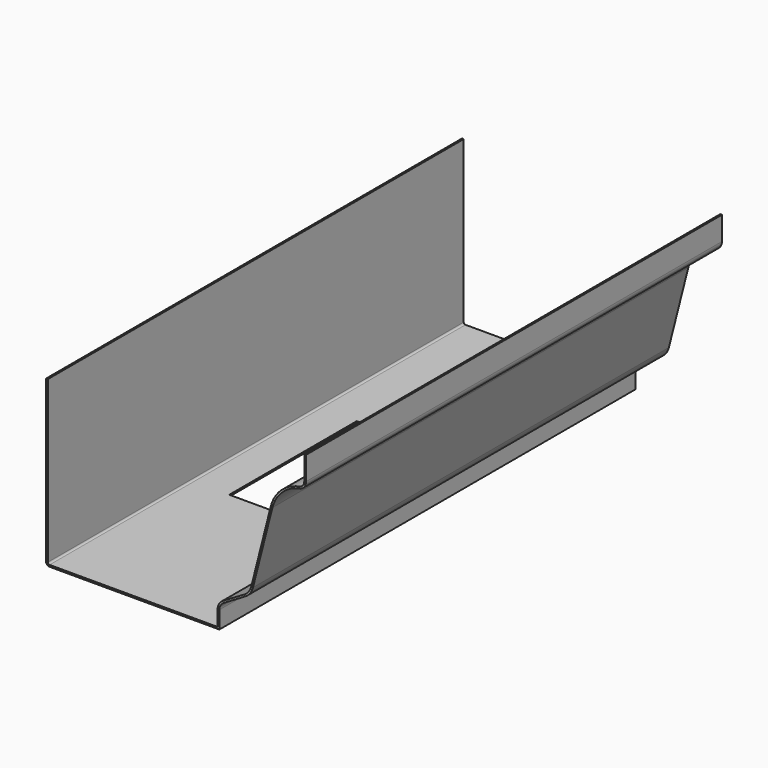
from build123d import *

# Parameters (mm, degrees)
F1_DEPTH = 300
F2_W     = 57
F2_H     = 92
F3_DEPTH = 25
F4_DEPTH = 25
F5_DEPTH = 25


with BuildPart() as f1:
    # F0 (on Front) → F1 (new body)
    with BuildSketch(Plane.XZ):
        with BuildLine():
            Line((75, 38.914216), (75, 52.5))
            Line((75, 52.5), (74, 52.5))
            Line((74, 52.5), (74, 38.875))
            ThreePointArc((74, 38.875), (73.361451, 36.706903), (71.649678, 35.231024))
            ThreePointArc((71.649678, 35.231024), (60.8185, 29.988223), (54.643786, 19.659898))
            Line((54.643786, 19.659898), (43.416317, -24.63337))
            ThreePointArc((43.416317, -24.63337), (41.948954, -27.705545), (39.413109, -29.977308))
            Line((39.413109, -29.977308), (26.950339, -37.332837))
            ThreePointArc((26.950339, -37.332837), (24.789532, -39.524934), (24, -42.5))
            Line((24, -42.5), (24, -51.5))
            Line((24, -51.5), (-73, -51.5))
            ThreePointArc((-73, -51.5), (-73.707107, -51.207107), (-74, -50.5))
            Line((-74, -50.5), (-74, 42.5))
            Line((-74, 42.5), (-75, 42.5))
            Line((-75, 42.5), (-75, -50.5))
            ThreePointArc((-75, -50.5), (-74.414214, -51.914214), (-73, -52.5))
            Line((-73, -52.5), (25, -52.5))
            Line((25, -52.5), (25, -42.5))
            ThreePointArc((25, -42.5), (25.657943, -40.020778), (27.458616, -38.194031))
            Line((27.458616, -38.194031), (39.921386, -30.838502))
            ThreePointArc((39.921386, -30.838502), (42.749295, -28.305091), (44.385661, -24.87908))
            Line((44.385661, -24.87908), (55.613129, 19.414189))
            ThreePointArc((55.613129, 19.414189), (61.539869, 29.29273), (71.932405, 34.263346))
            ThreePointArc((71.932405, 34.263346), (74.173992, 36.121942), (75, 38.914216))
        make_face()
    extrude(amount=F1_DEPTH)

    # F2 (on face) → F3 (cut)
    with BuildSketch(Plane(origin=(0, 0, -52.5), x_dir=(1, 0, 0), z_dir=(0, 0, -1))):
        with Locations((-24, 150)):
            Rectangle(F2_W, F2_H)
    extrude(amount=-F3_DEPTH, mode=Mode.SUBTRACT)

    # F2 (on face) → F4 (cut)
    with BuildSketch(Plane(origin=(0, 0, -52.5), x_dir=(1, 0, 0), z_dir=(0, 0, -1))):
        with Locations((-24, 150)):
            Rectangle(F2_W, F2_H)
    extrude(amount=-F4_DEPTH, mode=Mode.SUBTRACT)

    # F2 (on face) → F5 (cut)
    with BuildSketch(Plane(origin=(0, 0, -52.5), x_dir=(1, 0, 0), z_dir=(0, 0, -1))):
        with Locations((-24, 150)):
            Rectangle(F2_W, F2_H)
    extrude(amount=-F5_DEPTH, mode=Mode.SUBTRACT)


solid = f1.part
